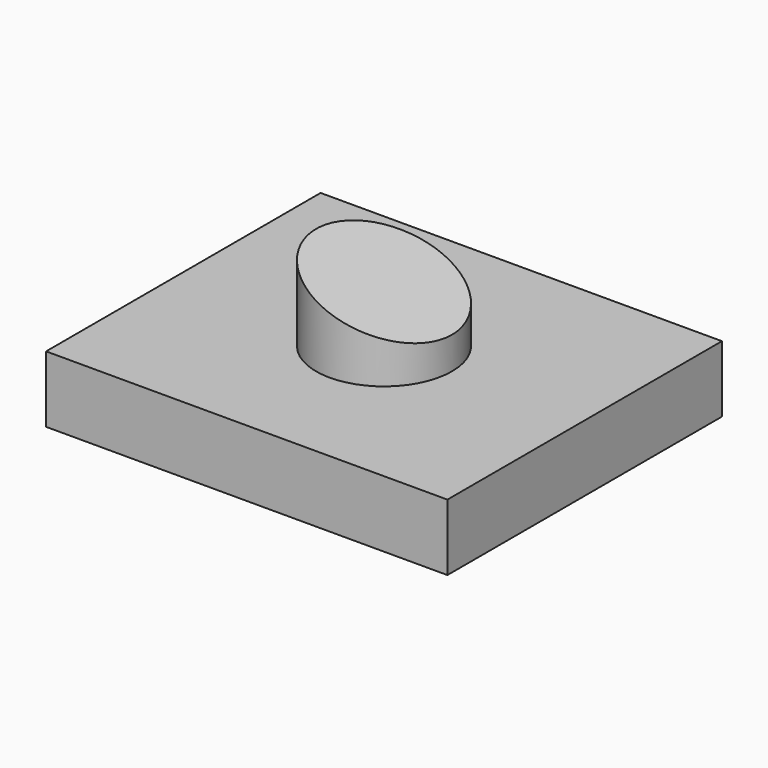
from build123d import *

# Parameters (mm, degrees)
F0_W     = 108.90334
F0_H     = 93.113952
F1_DEPTH = 18.034
F2_R     = 18.445574
F3_DEPTH = 54.61
F5_DEPTH = 25.4


with BuildPart() as f1:
    # F0 (on Top) → F1 (new body)
    with BuildSketch(Plane.XY):
        Rectangle(F0_W, F0_H)
    extrude(amount=-F1_DEPTH)

    # F2 (on Top) → F3 (join)
    with BuildSketch(Plane.XY):
        Circle(F2_R)
    extrude(amount=F3_DEPTH)

    # F4 (on Front) → F5 (cut, symmetric)
    with BuildSketch(Plane.XZ):
        Polygon((-27.631808, 92.519648), (-27.631808, 25.349762), (42.751096, 0), (42.751096, 25.349762), (42.751096, 92.519648), align=None)
    extrude(amount=F5_DEPTH, both=True, mode=Mode.SUBTRACT)


solid = f1.part
